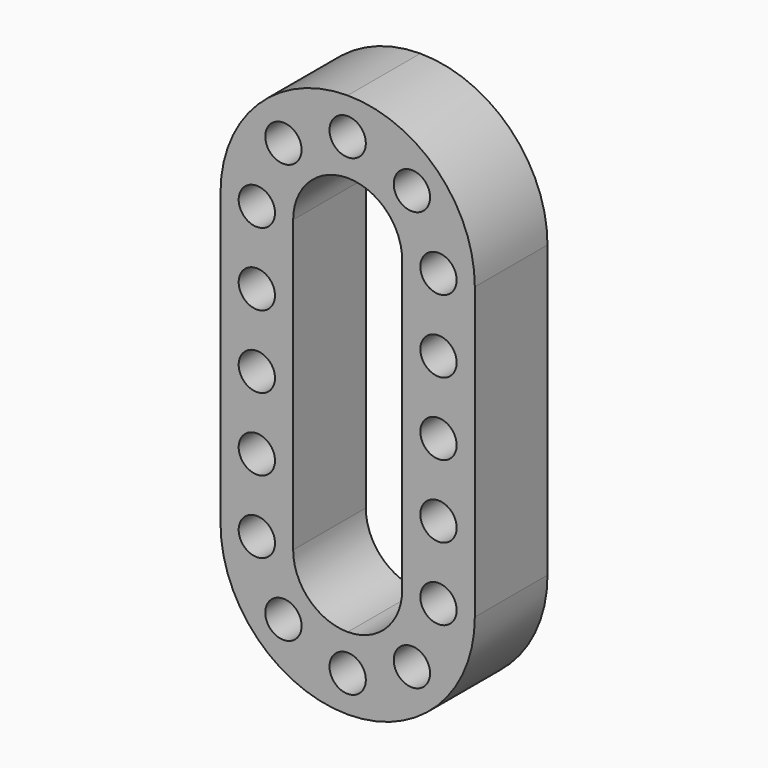
from build123d import *

# Parameters (mm, degrees)
F0_R     = 5
F1_DEPTH = 25


with BuildPart() as f1:
    # F0 (on Front) → F1 (new body)
    with BuildSketch(Plane.XZ):
        with BuildLine():
            ThreePointArc((0, 75), (-24.748737, 64.748737), (-35, 40))
            Line((-35, 40), (-35, 0))
            Line((-35, 0), (-35, -40))
            ThreePointArc((-35, -40), (-24.748737, -64.748737), (0, -75))
            ThreePointArc((0, -75), (24.748737, -64.748737), (35, -40))
            Line((35, -40), (35, 0))
            Line((35, 0), (35, 40))
            ThreePointArc((35, 40), (24.748737, 64.748737), (0, 75))
        make_face()
        with Locations((-17.67767, -57.67767)):
            Circle(F0_R, mode=Mode.SUBTRACT)
        with Locations((-25, -40)):
            Circle(F0_R, mode=Mode.SUBTRACT)
        with Locations((-25, -20)):
            Circle(F0_R, mode=Mode.SUBTRACT)
        with Locations((0, -65)):
            Circle(F0_R, mode=Mode.SUBTRACT)
        with Locations((17.67767, -57.67767)):
            Circle(F0_R, mode=Mode.SUBTRACT)
        with Locations((25, -40)):
            Circle(F0_R, mode=Mode.SUBTRACT)
        with Locations((25, -20)):
            Circle(F0_R, mode=Mode.SUBTRACT)
        with Locations((-25, 0)):
            Circle(F0_R, mode=Mode.SUBTRACT)
        with Locations((-25, 20)):
            Circle(F0_R, mode=Mode.SUBTRACT)
        with Locations((-25, 40)):
            Circle(F0_R, mode=Mode.SUBTRACT)
        with Locations((-17.67767, 57.67767)):
            Circle(F0_R, mode=Mode.SUBTRACT)
        with BuildLine():
            ThreePointArc((-15, 40), (-10.606602, 50.606602), (0, 55))
            ThreePointArc((0, 55), (10.606602, 50.606602), (15, 40))
            Line((15, 40), (15, 0))
            Line((15, 0), (15, -40))
            ThreePointArc((15, -40), (10.606602, -50.606602), (0, -55))
            ThreePointArc((0, -55), (-10.606602, -50.606602), (-15, -40))
            Line((-15, -40), (-15, 0))
            Line((-15, 0), (-15, 40))
        make_face(mode=Mode.SUBTRACT)
        with Locations((25, 0)):
            Circle(F0_R, mode=Mode.SUBTRACT)
        with Locations((25, 20)):
            Circle(F0_R, mode=Mode.SUBTRACT)
        with Locations((0, 65)):
            Circle(F0_R, mode=Mode.SUBTRACT)
        with Locations((25, 40)):
            Circle(F0_R, mode=Mode.SUBTRACT)
        with Locations((17.67767, 57.67767)):
            Circle(F0_R, mode=Mode.SUBTRACT)
    extrude(amount=F1_DEPTH)


solid = f1.part
